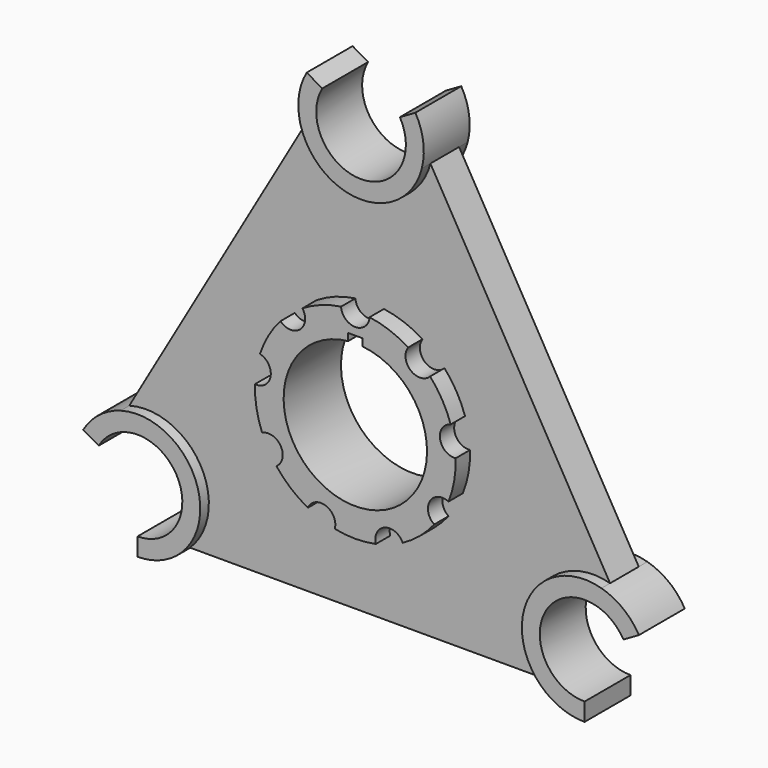
from build123d import *

# Parameters (mm, degrees)
F1_DEPTH = 10
F2_DEPTH = 8
F3_DEPTH = 5


with BuildPart() as f1:
    # F0 (on Front) → F1 (new body, symmetric)
    with BuildSketch(Plane.XZ):
        with BuildLine():
            ThreePointArc((3.989783, 27.714286), (0, 24), (-3.989783, 27.714286))
            ThreePointArc((-3.989783, 27.714286), (-9.576564, 26.311393), (-14.758048, 23.794958))
            ThreePointArc((-14.758048, 23.794958), (-15.426903, 18.385067), (-20.87075, 18.665792))
            ThreePointArc((-20.87075, 18.665792), (-24.248711, 14), (-26.600425, 8.741704))
            ThreePointArc((-26.600425, 8.741704), (-23.635386, 4.167556), (-27.986062, 0.883366))
            ThreePointArc((-27.986062, 0.883366), (-27.574617, -4.862149), (-25.996167, -10.40189))
            ThreePointArc((-25.996167, -10.40189), (-20.78461, -12), (-22.006384, -17.312396))
            ThreePointArc((-22.006384, -17.312396), (-17.998053, -21.449244), (-13.228013, -24.678324))
            ThreePointArc((-13.228013, -24.678324), (-8.208483, -22.552623), (-5.729674, -27.407496))
            ThreePointArc((-5.729674, -27.407496), (0, -28), (5.729674, -27.407496))
            ThreePointArc((5.729674, -27.407496), (8.208483, -22.552623), (13.228013, -24.678324))
            ThreePointArc((13.228013, -24.678324), (17.998053, -21.449244), (22.006384, -17.312396))
            ThreePointArc((22.006384, -17.312396), (20.78461, -12), (25.996167, -10.40189))
            ThreePointArc((25.996167, -10.40189), (27.574617, -4.862149), (27.986062, 0.883366))
            ThreePointArc((27.986062, 0.883366), (23.635386, 4.167556), (26.600425, 8.741704))
            ThreePointArc((26.600425, 8.741704), (24.248711, 14), (20.87075, 18.665792))
            ThreePointArc((20.87075, 18.665792), (15.426903, 18.385067), (14.758048, 23.794958))
            ThreePointArc((14.758048, 23.794958), (9.576564, 26.311393), (3.989783, 27.714286))
        make_face()
        with BuildLine():
            ThreePointArc((2, 19.899749), (0, -20), (-2, 19.899749))
            Line((-2, 19.899749), (-2, 21.899749))
            Line((-2, 21.899749), (2, 21.899749))
            Line((2, 21.899749), (2, 19.899749))
        make_face(mode=Mode.SUBTRACT)
    extrude(amount=F1_DEPTH, both=True)



with BuildPart() as f2:
    # F0 (on Front) → F2 (new body, symmetric)
    with BuildSketch(Plane.XZ):
        with BuildLine():
            Line((-10.825318, 78.25), (-15.155445, 80.75))
            ThreePointArc((-15.155445, 80.75), (-17.338404, 74.372706), (-16.949042, 67.643398))
            ThreePointArc((-16.949042, 67.643398), (0, 54.5), (16.949042, 67.643398))
            ThreePointArc((16.949042, 67.643398), (17.338404, 74.372706), (15.155445, 80.75))
            Line((15.155445, 80.75), (10.825318, 78.25))
            ThreePointArc((10.825318, 78.25), (0, 59.5), (-10.825318, 78.25))
        make_face()
        with BuildLine():
            ThreePointArc((-50.10638, -48.5), (-47.198385, -27.25), (-67.055422, -19.143398))
            ThreePointArc((-67.055422, -19.143398), (-73.077855, -22.170855), (-77.509274, -27.25))
            Line((-77.509274, -27.25), (-73.179147, -29.75))
            ThreePointArc((-73.179147, -29.75), (-51.528512, -29.75), (-62.353829, -48.5))
            Line((-62.353829, -48.5), (-62.353829, -53.5))
            ThreePointArc((-62.353829, -53.5), (-55.739451, -52.201852), (-50.10638, -48.5))
        make_face()
        with BuildLine():
            ThreePointArc((77.509274, -27.25), (73.077855, -22.170855), (67.055422, -19.143398))
            ThreePointArc((67.055422, -19.143398), (47.198385, -27.25), (50.10638, -48.5))
            ThreePointArc((50.10638, -48.5), (55.739451, -52.201852), (62.353829, -53.5))
            Line((62.353829, -53.5), (62.353829, -48.5))
            ThreePointArc((62.353829, -48.5), (51.528512, -29.75), (73.179147, -29.75))
            Line((73.179147, -29.75), (77.509274, -27.25))
        make_face()
    extrude(amount=F2_DEPTH, both=True)


with BuildPart() as f1_1:
    add(f1.part)

    add(f2.part)  # F3 merges F2
    # F0 (on Front) → F3 (join, symmetric)
    with BuildSketch(Plane.XZ):
        with BuildLine():
            ThreePointArc((16.949042, 67.643398), (0, 54.5), (-16.949042, 67.643398))
            Line((-16.949042, 67.643398), (-67.055422, -19.143398))
            ThreePointArc((-67.055422, -19.143398), (-47.198385, -27.25), (-50.10638, -48.5))
            Line((-50.10638, -48.5), (50.10638, -48.5))
            ThreePointArc((50.10638, -48.5), (47.198385, -27.25), (67.055422, -19.143398))
            Line((67.055422, -19.143398), (16.949042, 67.643398))
        make_face()
        with BuildLine():
            ThreePointArc((-14.758048, 23.794958), (-9.576564, 26.311393), (-3.989783, 27.714286))
            ThreePointArc((-3.989783, 27.714286), (0, 24), (3.989783, 27.714286))
            ThreePointArc((3.989783, 27.714286), (9.576564, 26.311393), (14.758048, 23.794958))
            ThreePointArc((14.758048, 23.794958), (15.426903, 18.385067), (20.87075, 18.665792))
            ThreePointArc((20.87075, 18.665792), (24.248711, 14), (26.600425, 8.741704))
            ThreePointArc((26.600425, 8.741704), (23.635386, 4.167556), (27.986062, 0.883366))
            ThreePointArc((27.986062, 0.883366), (27.574617, -4.862149), (25.996167, -10.40189))
            ThreePointArc((25.996167, -10.40189), (20.78461, -12), (22.006384, -17.312396))
            ThreePointArc((22.006384, -17.312396), (17.998053, -21.449244), (13.228013, -24.678324))
            ThreePointArc((13.228013, -24.678324), (8.208483, -22.552623), (5.729674, -27.407496))
            ThreePointArc((5.729674, -27.407496), (0, -28), (-5.729674, -27.407496))
            ThreePointArc((-5.729674, -27.407496), (-8.208483, -22.552623), (-13.228013, -24.678324))
            ThreePointArc((-13.228013, -24.678324), (-17.998053, -21.449244), (-22.006384, -17.312396))
            ThreePointArc((-22.006384, -17.312396), (-20.78461, -12), (-25.996167, -10.40189))
            ThreePointArc((-25.996167, -10.40189), (-27.574617, -4.862149), (-27.986062, 0.883366))
            ThreePointArc((-27.986062, 0.883366), (-23.635386, 4.167556), (-26.600425, 8.741704))
            ThreePointArc((-26.600425, 8.741704), (-24.248711, 14), (-20.87075, 18.665792))
            ThreePointArc((-20.87075, 18.665792), (-15.426903, 18.385067), (-14.758048, 23.794958))
        make_face(mode=Mode.SUBTRACT)
    extrude(amount=F3_DEPTH, both=True)


solid = f1_1.part
